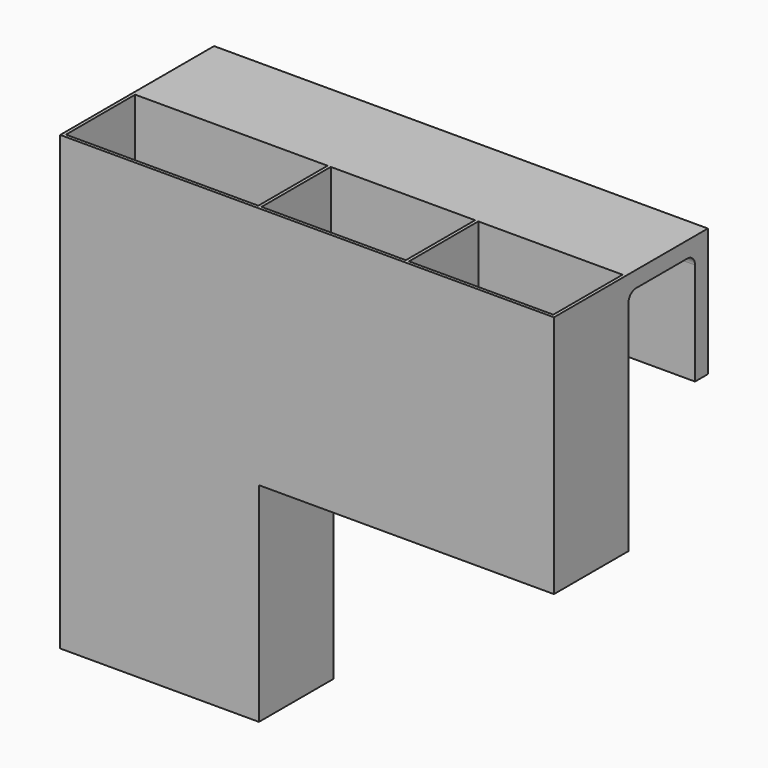
from build123d import *

# Parameters (mm, degrees)
BOX003_W     = 45
BOX003_H     = 27
BOX003_DEPTH = 75
BOX005_W     = 45
BOX005_H     = 27
BOX005_DEPTH = 75
BOX001_W     = 60
BOX001_H     = 27
BOX001_DEPTH = 140
BOX006_W     = 154
BOX006_H     = 31
BOX006_DEPTH = 5
BOX007_W     = 154
BOX007_H     = 5
BOX007_DEPTH = 40
BOX002_W     = 47
BOX002_H     = 29
BOX002_DEPTH = 76
BOX004_W     = 47
BOX004_H     = 29
BOX004_DEPTH = 76
BOX_W        = 62
BOX_H        = 29
BOX_DEPTH    = 141
FILLET_R     = 3


with BuildPart() as cube003:
    # Box003 → Box003 (new body)
    with BuildSketch(Plane(origin=(62, 1, 66), x_dir=(1, 0, 0), z_dir=(0, 0, 1))):
        with Locations((22.5, 13.5)):
            Rectangle(BOX003_W, BOX003_H)
    extrude(amount=BOX003_DEPTH)


with BuildPart() as cube005:
    # Box005 → Box005 (new body)
    with BuildSketch(Plane(origin=(108, 1, 66), x_dir=(1, 0, 0), z_dir=(0, 0, 1))):
        with Locations((22.5, 13.5)):
            Rectangle(BOX005_W, BOX005_H)
    extrude(amount=BOX005_DEPTH)


with BuildPart() as fusion001:
    # Box001 → Box001 (new body)
    with BuildSketch(Plane(origin=(1, 1, 1), x_dir=(1, 0, 0), z_dir=(0, 0, 1))):
        with Locations((30, 13.5)):
            Rectangle(BOX001_W, BOX001_H)
    extrude(amount=BOX001_DEPTH)

    # Fusion001: union Cube003, Cube005
    add(cube003.part)
    add(cube005.part)


with BuildPart() as cube006:
    # Box006 → Box006 (new body)
    with BuildSketch(Plane(origin=(0, 29, 136), x_dir=(1, 0, 0), z_dir=(0, 0, 1))):
        with Locations((77, 15.5)):
            Rectangle(BOX006_W, BOX006_H)
    extrude(amount=BOX006_DEPTH)


with BuildPart() as cube007:
    # Box007 → Box007 (new body)
    with BuildSketch(Plane(origin=(0, 55, 101), x_dir=(1, 0, 0), z_dir=(0, 0, 1))):
        with Locations((77, 2.5)):
            Rectangle(BOX007_W, BOX007_H)
    extrude(amount=BOX007_DEPTH)


with BuildPart() as cube002:
    # Box002 → Box002 (new body)
    with BuildSketch(Plane(origin=(61, 0, 65), x_dir=(1, 0, 0), z_dir=(0, 0, 1))):
        with Locations((23.5, 14.5)):
            Rectangle(BOX002_W, BOX002_H)
    extrude(amount=BOX002_DEPTH)


with BuildPart() as cube004:
    # Box004 → Box004 (new body)
    with BuildSketch(Plane(origin=(107, 0, 65), x_dir=(1, 0, 0), z_dir=(0, 0, 1))):
        with Locations((23.5, 14.5)):
            Rectangle(BOX004_W, BOX004_H)
    extrude(amount=BOX004_DEPTH)


with BuildPart() as fillet_body:
    # Box → Box (new body)
    with BuildSketch(Plane.XY):
        with Locations((31, 14.5)):
            Rectangle(BOX_W, BOX_H)
    extrude(amount=BOX_DEPTH)

    # Fusion: union Cube002, Cube004
    add(cube002.part)
    add(cube004.part)

    # Fusion002: union Cube006, Cube007
    add(cube006.part)
    add(cube007.part)

    # Cut: cut Fusion001
    add(fusion001.part, mode=Mode.SUBTRACT)

    # Fillet
    fillet_edges = [fillet_body.edges().sort_by_distance(p)[0] for p in [
        (77, 55, 136),
        (131, 29, 136),
        (84.5, 29, 136),
        (30.5, 29, 136),
    ]]
    fillet(fillet_edges, radius=FILLET_R)


solid = fillet_body.part
